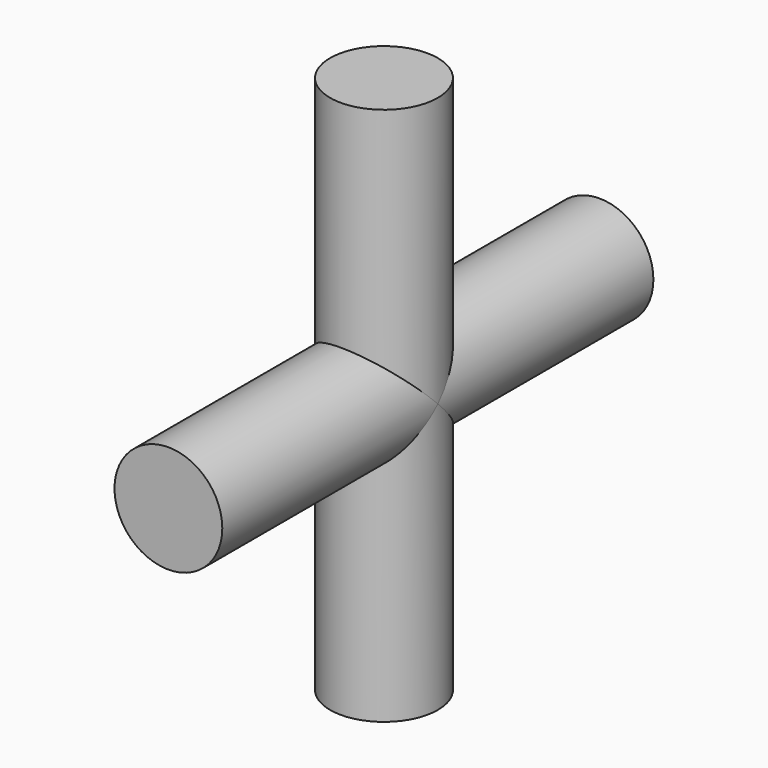
from build123d import *

# Parameters (mm, degrees)
F0_R     = 2.5
F1_DEPTH = 12.5
F2_R     = 2.5
F3_DEPTH = 12.5


with BuildPart() as f1:
    # F0 (on Top) → F1 (new body, symmetric)
    with BuildSketch(Plane.XY):
        Circle(F0_R)
    extrude(amount=F1_DEPTH, both=True)

    # F2 (on Front) → F3 (join, symmetric)
    with BuildSketch(Plane.XZ):
        Circle(F2_R)
    extrude(amount=F3_DEPTH, both=True)


solid = f1.part
